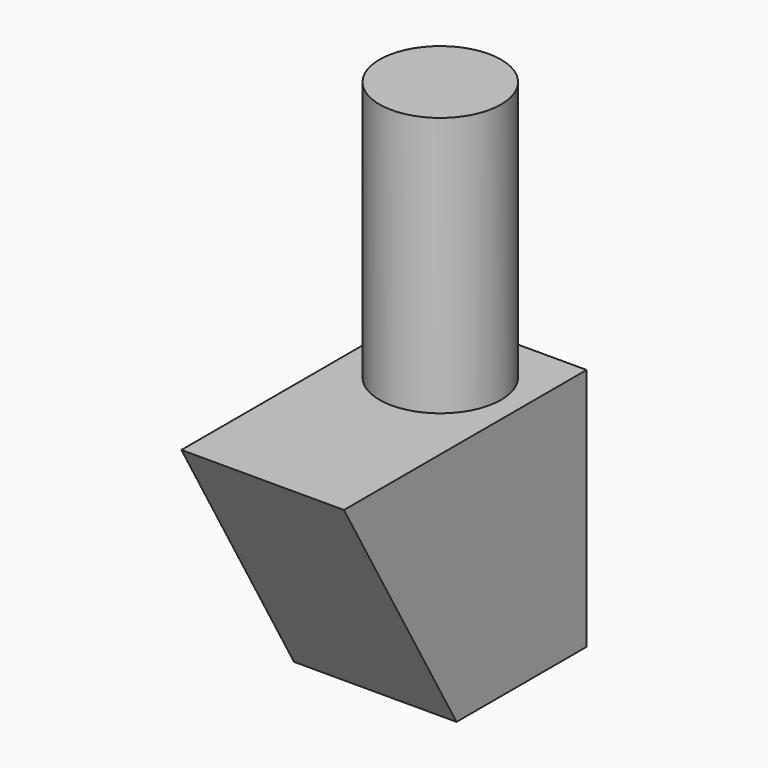
from build123d import *

# Parameters (mm, degrees)
F0_W     = 6.35
F0_H     = 6.35
F1_DEPTH = 9.525
F2_R     = 2.3749
F3_DEPTH = 10.16
F5_DEPTH = 6.35


with BuildPart() as f1:
    # F0 (on Top) → F1 (new body)
    with BuildSketch(Plane.XY):
        with Locations((3.175, 3.175)):
            Rectangle(F0_W, F0_H)
    extrude(amount=F1_DEPTH)

    # F2 (on face) → F3 (join)
    with BuildSketch(Plane.XY.offset(9.525)):
        with Locations((3.175, 3.175)):
            Circle(F2_R)
    extrude(amount=F3_DEPTH)

    # F4 (on face) → F5 (join, through all)
    with BuildSketch(Plane(origin=(0, 0, 0), x_dir=(0, -1, 0), z_dir=(-1, 0, 0))):
        Polygon((5.499261, 9.525), (0, 9.525), (0, 0), align=None)
    extrude(amount=-F5_DEPTH)


solid = f1.part
